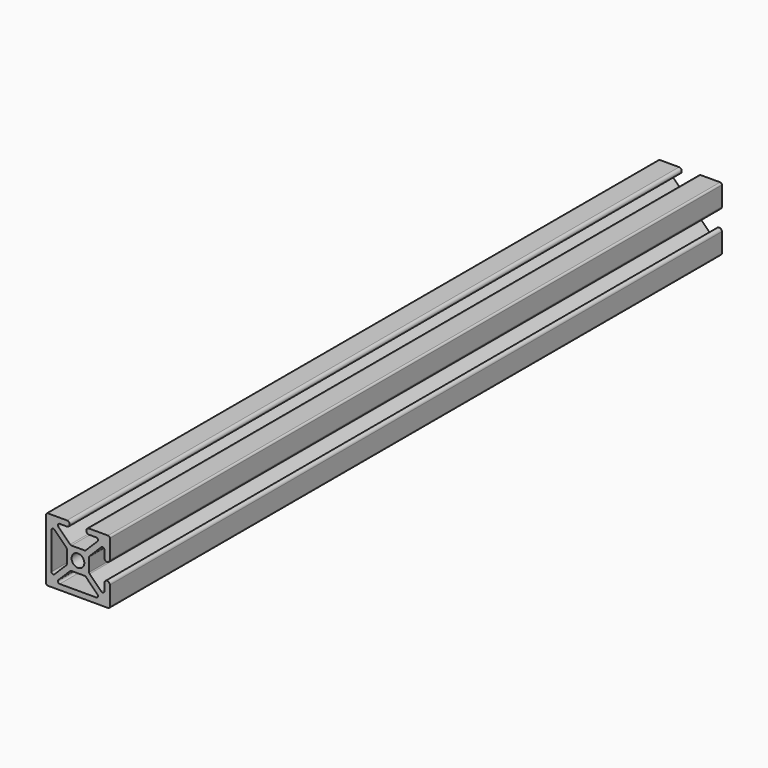
from build123d import *

# Parameters (mm, degrees)
F1_DEPTH = 300


with BuildPart() as f1:
    # F0 (on Front) → F1 (new body)
    with BuildSketch(Plane.XZ):
        with BuildLine():
            Line((4.38, -2.583913), (4.38, 0))
            Line((4.38, 0), (4.38, 2.583913))
            ThreePointArc((4.38, 2.583913), (4.433284, 2.851791), (4.585025, 3.078888))
            Line((4.585025, 3.078888), (9.175025, 7.668888))
            ThreePointArc((9.175025, 7.668888), (9.937878, 7.820629), (10.37, 7.173913))
            Line((10.37, 7.173913), (10.37, 4.314873))
            ThreePointArc((10.37, 4.314873), (11.435, 3.249873), (12.5, 4.314873))
            Line((12.5, 4.314873), (12.5, 11.8))
            ThreePointArc((12.5, 11.8), (12.294975, 12.294975), (11.8, 12.5))
            Line((11.8, 12.5), (4.314996, 12.5))
            ThreePointArc((4.314996, 12.5), (3.562948, 12.189087), (3.25, 11.437883))
            Line((3.25, 11.437883), (3.249996, 11.435001))
            ThreePointArc((3.249996, 11.435001), (3.561927, 10.681931), (4.314996, 10.37))
            Line((4.314996, 10.37), (7.173913, 10.37))
            ThreePointArc((7.173913, 10.37), (7.820629, 9.937878), (7.668888, 9.175025))
            Line((7.668888, 9.175025), (3.078888, 4.585025))
            ThreePointArc((3.078888, 4.585025), (2.851791, 4.433284), (2.583913, 4.38))
            Line((2.583913, 4.38), (-2.583913, 4.38))
            ThreePointArc((-2.583913, 4.38), (-2.851791, 4.433284), (-3.078888, 4.585025))
            Line((-3.078888, 4.585025), (-7.668888, 9.175025))
            ThreePointArc((-7.668888, 9.175025), (-7.820629, 9.937878), (-7.173913, 10.37))
            Line((-7.173913, 10.37), (-4.314998, 10.37))
            ThreePointArc((-4.314998, 10.37), (-3.249998, 11.435), (-4.314998, 12.5))
            Line((-4.314998, 12.5), (-11.8, 12.5))
            ThreePointArc((-11.8, 12.5), (-12.294975, 12.294975), (-12.5, 11.8))
            Line((-12.5, 11.8), (-12.5, -11.8))
            ThreePointArc((-12.5, -11.8), (-12.294975, -12.294975), (-11.8, -12.5))
            Line((-11.8, -12.5), (11.8, -12.5))
            ThreePointArc((11.8, -12.5), (12.294975, -12.294975), (12.5, -11.8))
            Line((12.5, -11.8), (12.5, -4.314223))
            ThreePointArc((12.5, -4.314223), (11.435, -3.249223), (10.37, -4.314223))
            Line((10.37, -4.314223), (10.37, -7.173913))
            ThreePointArc((10.37, -7.173913), (9.937878, -7.820629), (9.175025, -7.668888))
            Line((9.175025, -7.668888), (4.585025, -3.078888))
            ThreePointArc((4.585025, -3.078888), (4.433284, -2.851791), (4.38, -2.583913))
        make_face()
        with BuildLine():
            Line((-4.38, 2.583913), (-4.38, 0))
            Line((-4.38, 0), (-4.38, -2.583913))
            ThreePointArc((-4.38, -2.583913), (-4.433284, -2.851791), (-4.585025, -3.078888))
            Line((-4.585025, -3.078888), (-9.175025, -7.668888))
            ThreePointArc((-9.175025, -7.668888), (-9.937878, -7.820629), (-10.37, -7.173913))
            Line((-10.37, -7.173913), (-10.37, 0))
            Line((-10.37, 0), (-10.37, 7.173913))
            ThreePointArc((-10.37, 7.173913), (-9.937878, 7.820629), (-9.175025, 7.668888))
            Line((-9.175025, 7.668888), (-4.585025, 3.078888))
            ThreePointArc((-4.585025, 3.078888), (-4.433284, 2.851791), (-4.38, 2.583913))
        make_face(mode=Mode.SUBTRACT)
        with BuildLine():
            Line((-2.583913, -4.38), (2.583913, -4.38))
            ThreePointArc((2.583913, -4.38), (2.851791, -4.433284), (3.078888, -4.585025))
            Line((3.078888, -4.585025), (7.668888, -9.175025))
            ThreePointArc((7.668888, -9.175025), (7.820629, -9.937878), (7.173913, -10.37))
            Line((7.173913, -10.37), (-7.173913, -10.37))
            ThreePointArc((-7.173913, -10.37), (-7.820629, -9.937878), (-7.668888, -9.175025))
            Line((-7.668888, -9.175025), (-3.078888, -4.585025))
            ThreePointArc((-3.078888, -4.585025), (-2.851791, -4.433284), (-2.583913, -4.38))
        make_face(mode=Mode.SUBTRACT)
        with BuildLine():
            ThreePointArc((-2.5, 0), (0, 2.5), (2.5, 0))
            ThreePointArc((2.5, 0), (0, -2.5), (-2.5, 0))
        make_face(mode=Mode.SUBTRACT)
    extrude(amount=F1_DEPTH)


solid = f1.part
